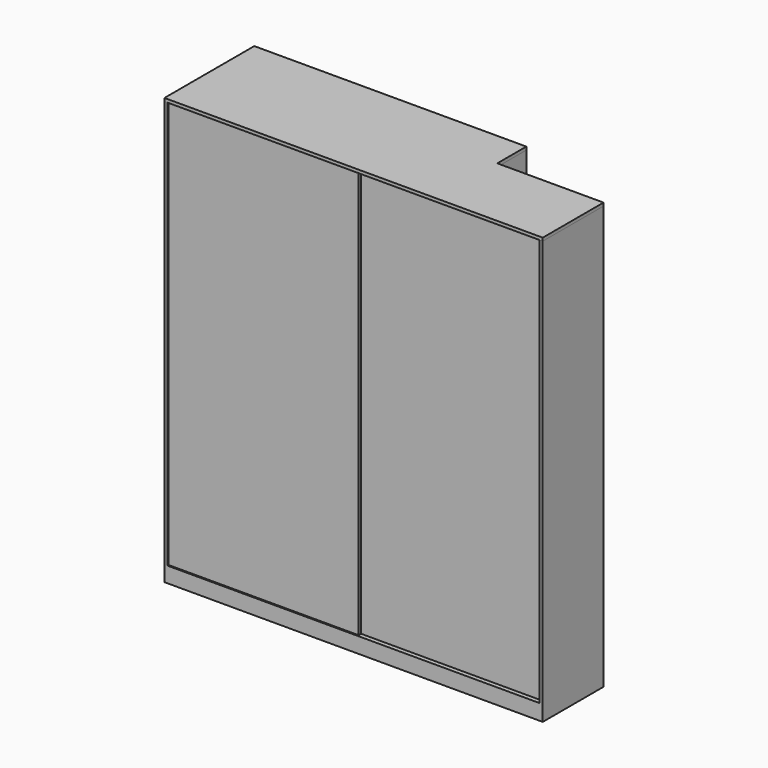
from build123d import *

# Parameters (mm, degrees)
F1_DEPTH = 90
F2_DEPTH = 2360
F3_DEPTH = 2360
F4_DEPTH = 2360
F6_DEPTH = 18


with BuildPart() as f1:
    # F0 (on Top) → F1 (new body)
    with BuildSketch(Plane.XY):
        Polygon((-623, 440), (-615, 440), (-615, 650), (-624, 650), (-625, 650), (-625, 642), (-633, 642), (-633, 432), (-623, 432), align=None)
        Polygon((-10, 432), (-10, 440), (-18, 440), (-615, 440), (-623, 440), (-623, 432), (-615, 432), (-18, 432), align=None)
        Polygon((-2172, 650), (-2180, 650), (-2180, 642), (-2172, 642), (-633, 642), (-625, 642), (-625, 650), (-633, 650), (-2171.212093, 650), align=None)
        Polygon((-18, 0), (0, 0), (0, 440), (-10, 440), (-10, 432), (-18, 432), (-18, 44), (-18, 26), align=None)
        Polygon((-1118, 44), (-18, 44), (-18, 432), (-615, 432), (-623, 432), (-633, 432), (-633, 642), (-2172, 642), (-2172, 26), (-1118, 26), align=None)
        Polygon((-1072, 26), (-18, 26), (-18, 44), (-1118, 44), (-1118, 26), align=None)
        Polygon((-2172, 26), (-2172, 8), (-1072, 8), (-1072, 26), (-1118, 26), align=None)
        Polygon((-2172, 0), (-18, 0), (-18, 26), (-1072, 26), (-1072, 8), (-2172, 8), align=None)
        Polygon((-2190, 0), (-2172, 0), (-2172, 8), (-2172, 26), (-2172, 642), (-2180, 642), (-2180, 650), (-2190, 650), align=None)
    extrude(amount=-F1_DEPTH)

    # F0 (on Top) → F2 (join)
    with BuildSketch(Plane.XY):
        Polygon((-2172, 650), (-2180, 650), (-2180, 642), (-2172, 642), (-633, 642), (-625, 642), (-625, 650), (-633, 650), (-2171.212093, 650), align=None)
        Polygon((-623, 440), (-615, 440), (-615, 650), (-624, 650), (-625, 650), (-625, 642), (-633, 642), (-633, 432), (-623, 432), align=None)
        Polygon((-10, 432), (-10, 440), (-18, 440), (-615, 440), (-623, 440), (-623, 432), (-615, 432), (-18, 432), align=None)
        Polygon((-18, 0), (0, 0), (0, 440), (-10, 440), (-10, 432), (-18, 432), (-18, 44), (-18, 26), align=None)
        Polygon((-2190, 0), (-2172, 0), (-2172, 8), (-2172, 26), (-2172, 642), (-2180, 642), (-2180, 650), (-2190, 650), align=None)
    extrude(amount=F2_DEPTH)


with BuildPart() as f3:
    # F0 (on Top) → F3 (new body)
    with BuildSketch(Plane.XY):
        Polygon((-2172, 26), (-2172, 8), (-1072, 8), (-1072, 26), (-1118, 26), align=None)
    extrude(amount=F3_DEPTH)


with BuildPart() as f4:
    # F0 (on Top) → F4 (new body)
    with BuildSketch(Plane.XY):
        Polygon((-1072, 26), (-18, 26), (-18, 44), (-1118, 44), (-1118, 26), align=None)
    extrude(amount=F4_DEPTH)


with BuildPart() as f6:
    # F5 (on face) → F6 (new body)
    with BuildSketch(Plane.XY.offset(2360)):
        Polygon((-615, 440), (-615, 650), (-2190, 650), (-2190, 0), (-2172, 0), (-2172, 642), (-633, 642), (-633, 432), (-18, 432), (-18, 0), (0, 0), (0, 440), align=None)
        Polygon((-2172, 642), (-2172, 0), (-18, 0), (-18, 432), (-633, 432), (-633, 642), align=None)
    extrude(amount=F6_DEPTH)


solid = Compound([f1.part, f3.part, f4.part, f6.part])
